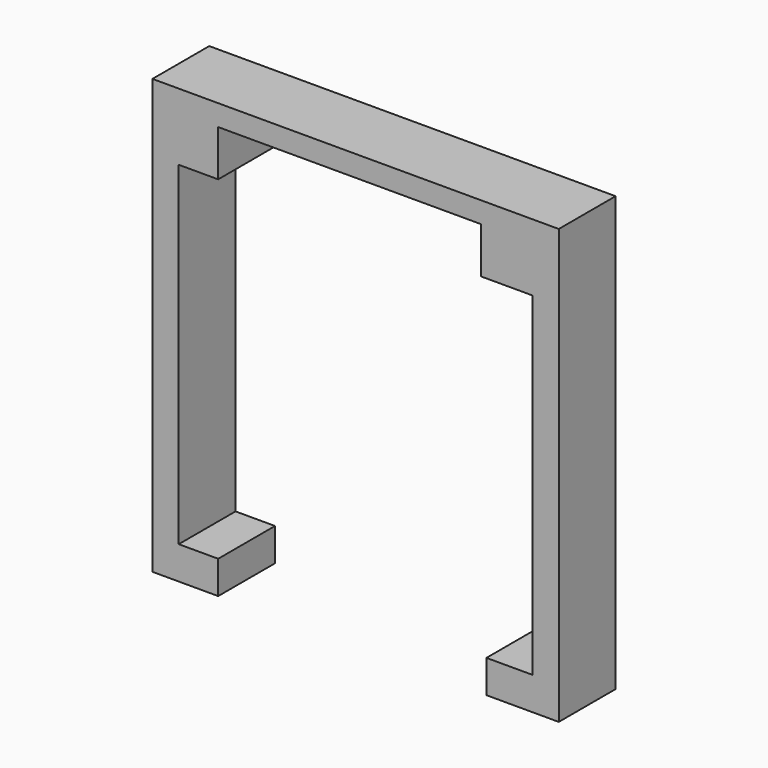
from build123d import *

# Parameters (mm, degrees)
BOX003_W     = 20
BOX003_H     = 26
BOX003_DEPTH = 3.5
BOX002_W     = 20.4
BOX002_H     = 25.4
BOX002_DEPTH = 10
BOX001_W     = 26.9
BOX001_H     = 26
BOX001_DEPTH = 25.4
BOX_W        = 30.9
BOX_H        = 5.4
BOX_DEPTH    = 33


with BuildPart() as cableslot:
    # Box003 → Box003 (new body)
    with BuildSketch(Plane(origin=(5, 0, 27.9), x_dir=(1, 0, 0), z_dir=(0, 0, 1))):
        with Locations((10, 13)):
            Rectangle(BOX003_W, BOX003_H)
    extrude(amount=BOX003_DEPTH)


with BuildPart() as gap:
    # Box002 → Box002 (new body)
    with BuildSketch(Plane(origin=(5, 0, 0), x_dir=(1, 0, 0), z_dir=(0, 0, 1))):
        with Locations((10.2, 12.7)):
            Rectangle(BOX002_W, BOX002_H)
    extrude(amount=BOX002_DEPTH)


with BuildPart() as bar:
    # Box001 → Box001 (new body)
    with BuildSketch(Plane(origin=(2, 0, 2.5), x_dir=(1, 0, 0), z_dir=(0, 0, 1))):
        with Locations((13.45, 13)):
            Rectangle(BOX001_W, BOX001_H)
    extrude(amount=BOX001_DEPTH)


with BuildPart() as cut002:
    # Box → Box (new body)
    with BuildSketch(Plane.XY):
        with Locations((15.45, 2.7)):
            Rectangle(BOX_W, BOX_H)
    extrude(amount=BOX_DEPTH)

    # Cut: cut Bar
    add(bar.part, mode=Mode.SUBTRACT)

    # Cut001: cut Gap
    add(gap.part, mode=Mode.SUBTRACT)

    # Cut002: cut CableSlot
    add(cableslot.part, mode=Mode.SUBTRACT)


with BuildPart() as cut002_1:
    # Cut002 placement: moved
    add(cut002.part.moved(Location((0, 0, 30))))


solid = cut002_1.part
